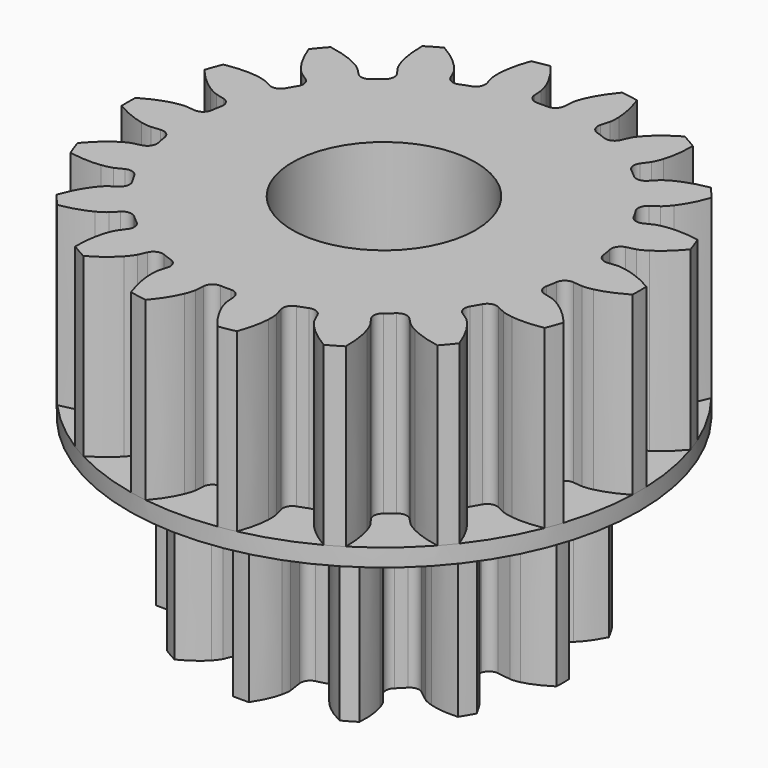
from build123d import *

# Parameters (mm, degrees)
PAD002_DEPTH    = 10
SKETCH_R        = 14.5
PAD_DEPTH       = 1
PAD001_DEPTH    = 10
SKETCH001_R     = 4
POCKET_DEPTH    = 13.8
SKETCH002_R     = 5.2
POCKET001_DEPTH = 7
SKETCH003_R     = 5.2
POCKET002_DEPTH = 7


with BuildPart() as pad:
    # InvoluteGear001 → Pad002 (new body)
    with BuildSketch(Plane.XY):
        with BuildLine():
            Line((7.332691, -1.076777), (8.11163, -1.189963))
            add(Edge.make_bspline(
                [(8.11163, -1.189963), (8.171593, -1.194233), (8.35162, -1.198221), (8.65427, -1.129313)],
                knots=[0, 0, 0, 0, 1, 1, 1, 1], degree=3))
            add(Edge.make_bspline(
                [(8.65427, -1.129313), (9.014524, -1.045174), (9.527501, -0.858342), (10.142045, -0.449147)],
                knots=[0, 0, 0, 0, 1, 1, 1, 1], degree=3))
            ThreePointArc((10.142045, -0.449147), (10.151987, 0), (10.142045, 0.449147))
            add(Edge.make_bspline(
                [(10.142045, 0.449147), (9.527501, 0.858342), (9.014524, 1.045174), (8.65427, 1.129313)],
                knots=[0, 0, 0, 0, 1, 1, 1, 1], degree=3))
            add(Edge.make_bspline(
                [(8.65427, 1.129313), (8.35162, 1.198221), (8.171593, 1.194233), (8.11163, 1.189963)],
                knots=[0, 0, 0, 0, 1, 1, 1, 1], degree=3))
            Line((8.11163, 1.189963), (7.332691, 1.076777))
            ThreePointArc((7.332691, 1.076777), (6.945887, 1.166515), (6.723226, 1.49529))
            ThreePointArc((6.723226, 1.49529), (6.652814, 1.782616), (6.570129, 2.066654))
            ThreePointArc((6.570129, 2.066654), (6.598572, 2.462712), (6.888686, 2.733829))
            Line((6.888686, 2.733829), (7.619859, 3.025277))
            add(Edge.make_bspline(
                [(7.619859, 3.025277), (7.673924, 3.05156), (7.831825, 3.13812), (8.059474, 3.349121)],
                knots=[0, 0, 0, 0, 1, 1, 1, 1], degree=3))
            add(Edge.make_bspline(
                [(8.059474, 3.349121), (8.329394, 3.602115), (8.680229, 4.020404), (9.007842, 4.68205)],
                knots=[0, 0, 0, 0, 1, 1, 1, 1], degree=3))
            ThreePointArc((9.007842, 4.68205), (8.791879, 5.075994), (8.558695, 5.459995))
            add(Edge.make_bspline(
                [(8.558695, 5.459995), (7.821886, 5.507097), (7.28422, 5.41241), (6.930161, 5.305148)],
                knots=[0, 0, 0, 0, 1, 1, 1, 1], degree=3))
            add(Edge.make_bspline(
                [(6.930161, 5.305148), (6.633604, 5.2135), (6.479691, 5.120033), (6.429896, 5.086354)],
                knots=[0, 0, 0, 0, 1, 1, 1, 1], degree=3))
            Line((6.429896, 5.086354), (5.811908, 4.598862))
            ThreePointArc((5.811908, 4.598862), (5.432057, 4.483175), (5.074839, 4.656572))
            ThreePointArc((5.074839, 4.656572), (4.870198, 4.870198), (4.656572, 5.074839))
            ThreePointArc((4.656572, 5.074839), (4.483175, 5.432057), (4.598862, 5.811908))
            Line((4.598862, 5.811908), (5.086354, 6.429896))
            add(Edge.make_bspline(
                [(5.086354, 6.429896), (5.120033, 6.479691), (5.2135, 6.633604), (5.305148, 6.930161)],
                knots=[0, 0, 0, 0, 1, 1, 1, 1], degree=3))
            add(Edge.make_bspline(
                [(5.305148, 6.930161), (5.41241, 7.28422), (5.507097, 7.821886), (5.459995, 8.558695)],
                knots=[0, 0, 0, 0, 1, 1, 1, 1], degree=3))
            ThreePointArc((5.459995, 8.558695), (5.075994, 8.791879), (4.68205, 9.007842))
            add(Edge.make_bspline(
                [(4.68205, 9.007842), (4.020404, 8.680229), (3.602115, 8.329394), (3.349121, 8.059474)],
                knots=[0, 0, 0, 0, 1, 1, 1, 1], degree=3))
            add(Edge.make_bspline(
                [(3.349121, 8.059474), (3.13812, 7.831825), (3.05156, 7.673924), (3.025277, 7.619859)],
                knots=[0, 0, 0, 0, 1, 1, 1, 1], degree=3))
            Line((3.025277, 7.619859), (2.733829, 6.888686))
            ThreePointArc((2.733829, 6.888686), (2.462712, 6.598572), (2.066654, 6.570129))
            ThreePointArc((2.066654, 6.570129), (1.782616, 6.652814), (1.49529, 6.723226))
            ThreePointArc((1.49529, 6.723226), (1.166515, 6.945887), (1.076777, 7.332691))
            Line((1.076777, 7.332691), (1.189963, 8.11163))
            add(Edge.make_bspline(
                [(1.189963, 8.11163), (1.194233, 8.171593), (1.198221, 8.35162), (1.129313, 8.65427)],
                knots=[0, 0, 0, 0, 1, 1, 1, 1], degree=3))
            add(Edge.make_bspline(
                [(1.129313, 8.65427), (1.045174, 9.014524), (0.858342, 9.527501), (0.449147, 10.142045)],
                knots=[0, 0, 0, 0, 1, 1, 1, 1], degree=3))
            ThreePointArc((0.449147, 10.142045), (0, 10.151987), (-0.449147, 10.142045))
            add(Edge.make_bspline(
                [(-0.449147, 10.142045), (-0.858342, 9.527501), (-1.045174, 9.014524), (-1.129313, 8.65427)],
                knots=[0, 0, 0, 0, 1, 1, 1, 1], degree=3))
            add(Edge.make_bspline(
                [(-1.129313, 8.65427), (-1.198221, 8.35162), (-1.194233, 8.171593), (-1.189963, 8.11163)],
                knots=[0, 0, 0, 0, 1, 1, 1, 1], degree=3))
            Line((-1.189963, 8.11163), (-1.076777, 7.332691))
            ThreePointArc((-1.076777, 7.332691), (-1.166515, 6.945887), (-1.49529, 6.723226))
            ThreePointArc((-1.49529, 6.723226), (-1.782616, 6.652814), (-2.066654, 6.570129))
            ThreePointArc((-2.066654, 6.570129), (-2.462712, 6.598572), (-2.733829, 6.888686))
            Line((-2.733829, 6.888686), (-3.025277, 7.619859))
            add(Edge.make_bspline(
                [(-3.025277, 7.619859), (-3.05156, 7.673924), (-3.13812, 7.831825), (-3.349121, 8.059474)],
                knots=[0, 0, 0, 0, 1, 1, 1, 1], degree=3))
            add(Edge.make_bspline(
                [(-3.349121, 8.059474), (-3.602115, 8.329394), (-4.020404, 8.680229), (-4.68205, 9.007842)],
                knots=[0, 0, 0, 0, 1, 1, 1, 1], degree=3))
            ThreePointArc((-4.68205, 9.007842), (-5.075994, 8.791879), (-5.459995, 8.558695))
            add(Edge.make_bspline(
                [(-5.459995, 8.558695), (-5.507097, 7.821886), (-5.41241, 7.28422), (-5.305148, 6.930161)],
                knots=[0, 0, 0, 0, 1, 1, 1, 1], degree=3))
            add(Edge.make_bspline(
                [(-5.305148, 6.930161), (-5.2135, 6.633604), (-5.120033, 6.479691), (-5.086354, 6.429896)],
                knots=[0, 0, 0, 0, 1, 1, 1, 1], degree=3))
            Line((-5.086354, 6.429896), (-4.598862, 5.811908))
            ThreePointArc((-4.598862, 5.811908), (-4.483175, 5.432057), (-4.656572, 5.074839))
            ThreePointArc((-4.656572, 5.074839), (-4.870198, 4.870198), (-5.074839, 4.656572))
            ThreePointArc((-5.074839, 4.656572), (-5.432057, 4.483175), (-5.811908, 4.598862))
            Line((-5.811908, 4.598862), (-6.429896, 5.086354))
            add(Edge.make_bspline(
                [(-6.429896, 5.086354), (-6.479691, 5.120033), (-6.633604, 5.2135), (-6.930161, 5.305148)],
                knots=[0, 0, 0, 0, 1, 1, 1, 1], degree=3))
            add(Edge.make_bspline(
                [(-6.930161, 5.305148), (-7.28422, 5.41241), (-7.821886, 5.507097), (-8.558695, 5.459995)],
                knots=[0, 0, 0, 0, 1, 1, 1, 1], degree=3))
            ThreePointArc((-8.558695, 5.459995), (-8.791879, 5.075994), (-9.007842, 4.68205))
            add(Edge.make_bspline(
                [(-9.007842, 4.68205), (-8.680229, 4.020404), (-8.329394, 3.602115), (-8.059474, 3.349121)],
                knots=[0, 0, 0, 0, 1, 1, 1, 1], degree=3))
            add(Edge.make_bspline(
                [(-8.059474, 3.349121), (-7.831825, 3.13812), (-7.673924, 3.05156), (-7.619859, 3.025277)],
                knots=[0, 0, 0, 0, 1, 1, 1, 1], degree=3))
            Line((-7.619859, 3.025277), (-6.888686, 2.733829))
            ThreePointArc((-6.888686, 2.733829), (-6.598572, 2.462712), (-6.570129, 2.066654))
            ThreePointArc((-6.570129, 2.066654), (-6.652814, 1.782616), (-6.723226, 1.49529))
            ThreePointArc((-6.723226, 1.49529), (-6.945887, 1.166515), (-7.332691, 1.076777))
            Line((-7.332691, 1.076777), (-8.11163, 1.189963))
            add(Edge.make_bspline(
                [(-8.11163, 1.189963), (-8.171593, 1.194233), (-8.35162, 1.198221), (-8.65427, 1.129313)],
                knots=[0, 0, 0, 0, 1, 1, 1, 1], degree=3))
            add(Edge.make_bspline(
                [(-8.65427, 1.129313), (-9.014524, 1.045174), (-9.527501, 0.858342), (-10.142045, 0.449147)],
                knots=[0, 0, 0, 0, 1, 1, 1, 1], degree=3))
            ThreePointArc((-10.142045, 0.449147), (-10.151987, 0), (-10.142045, -0.449147))
            add(Edge.make_bspline(
                [(-10.142045, -0.449147), (-9.527501, -0.858342), (-9.014524, -1.045174), (-8.65427, -1.129313)],
                knots=[0, 0, 0, 0, 1, 1, 1, 1], degree=3))
            add(Edge.make_bspline(
                [(-8.65427, -1.129313), (-8.35162, -1.198221), (-8.171593, -1.194233), (-8.11163, -1.189963)],
                knots=[0, 0, 0, 0, 1, 1, 1, 1], degree=3))
            Line((-8.11163, -1.189963), (-7.332691, -1.076777))
            ThreePointArc((-7.332691, -1.076777), (-6.945887, -1.166515), (-6.723226, -1.49529))
            ThreePointArc((-6.723226, -1.49529), (-6.652814, -1.782616), (-6.570129, -2.066654))
            ThreePointArc((-6.570129, -2.066654), (-6.598572, -2.462712), (-6.888686, -2.733829))
            Line((-6.888686, -2.733829), (-7.619859, -3.025277))
            add(Edge.make_bspline(
                [(-7.619859, -3.025277), (-7.673924, -3.05156), (-7.831825, -3.13812), (-8.059474, -3.349121)],
                knots=[0, 0, 0, 0, 1, 1, 1, 1], degree=3))
            add(Edge.make_bspline(
                [(-8.059474, -3.349121), (-8.329394, -3.602115), (-8.680229, -4.020404), (-9.007842, -4.68205)],
                knots=[0, 0, 0, 0, 1, 1, 1, 1], degree=3))
            ThreePointArc((-9.007842, -4.68205), (-8.791879, -5.075994), (-8.558695, -5.459995))
            add(Edge.make_bspline(
                [(-8.558695, -5.459995), (-7.821886, -5.507097), (-7.28422, -5.41241), (-6.930161, -5.305148)],
                knots=[0, 0, 0, 0, 1, 1, 1, 1], degree=3))
            add(Edge.make_bspline(
                [(-6.930161, -5.305148), (-6.633604, -5.2135), (-6.479691, -5.120033), (-6.429896, -5.086354)],
                knots=[0, 0, 0, 0, 1, 1, 1, 1], degree=3))
            Line((-6.429896, -5.086354), (-5.811908, -4.598862))
            ThreePointArc((-5.811908, -4.598862), (-5.432057, -4.483175), (-5.074839, -4.656572))
            ThreePointArc((-5.074839, -4.656572), (-4.870198, -4.870198), (-4.656572, -5.074839))
            ThreePointArc((-4.656572, -5.074839), (-4.483175, -5.432057), (-4.598862, -5.811908))
            Line((-4.598862, -5.811908), (-5.086354, -6.429896))
            add(Edge.make_bspline(
                [(-5.086354, -6.429896), (-5.120033, -6.479691), (-5.2135, -6.633604), (-5.305148, -6.930161)],
                knots=[0, 0, 0, 0, 1, 1, 1, 1], degree=3))
            add(Edge.make_bspline(
                [(-5.305148, -6.930161), (-5.41241, -7.28422), (-5.507097, -7.821886), (-5.459995, -8.558695)],
                knots=[0, 0, 0, 0, 1, 1, 1, 1], degree=3))
            ThreePointArc((-5.459995, -8.558695), (-5.075994, -8.791879), (-4.68205, -9.007842))
            add(Edge.make_bspline(
                [(-4.68205, -9.007842), (-4.020404, -8.680229), (-3.602115, -8.329394), (-3.349121, -8.059474)],
                knots=[0, 0, 0, 0, 1, 1, 1, 1], degree=3))
            add(Edge.make_bspline(
                [(-3.349121, -8.059474), (-3.13812, -7.831825), (-3.05156, -7.673924), (-3.025277, -7.619859)],
                knots=[0, 0, 0, 0, 1, 1, 1, 1], degree=3))
            Line((-3.025277, -7.619859), (-2.733829, -6.888686))
            ThreePointArc((-2.733829, -6.888686), (-2.462712, -6.598572), (-2.066654, -6.570129))
            ThreePointArc((-2.066654, -6.570129), (-1.782616, -6.652814), (-1.49529, -6.723226))
            ThreePointArc((-1.49529, -6.723226), (-1.166515, -6.945887), (-1.076777, -7.332691))
            Line((-1.076777, -7.332691), (-1.189963, -8.11163))
            add(Edge.make_bspline(
                [(-1.189963, -8.11163), (-1.194233, -8.171593), (-1.198221, -8.35162), (-1.129313, -8.65427)],
                knots=[0, 0, 0, 0, 1, 1, 1, 1], degree=3))
            add(Edge.make_bspline(
                [(-1.129313, -8.65427), (-1.045174, -9.014524), (-0.858342, -9.527501), (-0.449147, -10.142045)],
                knots=[0, 0, 0, 0, 1, 1, 1, 1], degree=3))
            ThreePointArc((-0.449147, -10.142045), (0, -10.151987), (0.449147, -10.142045))
            add(Edge.make_bspline(
                [(0.449147, -10.142045), (0.858342, -9.527501), (1.045174, -9.014524), (1.129313, -8.65427)],
                knots=[0, 0, 0, 0, 1, 1, 1, 1], degree=3))
            add(Edge.make_bspline(
                [(1.129313, -8.65427), (1.198221, -8.35162), (1.194233, -8.171593), (1.189963, -8.11163)],
                knots=[0, 0, 0, 0, 1, 1, 1, 1], degree=3))
            Line((1.189963, -8.11163), (1.076777, -7.332691))
            ThreePointArc((1.076777, -7.332691), (1.166515, -6.945887), (1.49529, -6.723226))
            ThreePointArc((1.49529, -6.723226), (1.782616, -6.652814), (2.066654, -6.570129))
            ThreePointArc((2.066654, -6.570129), (2.462712, -6.598572), (2.733829, -6.888686))
            Line((2.733829, -6.888686), (3.025277, -7.619859))
            add(Edge.make_bspline(
                [(3.025277, -7.619859), (3.05156, -7.673924), (3.13812, -7.831825), (3.349121, -8.059474)],
                knots=[0, 0, 0, 0, 1, 1, 1, 1], degree=3))
            add(Edge.make_bspline(
                [(3.349121, -8.059474), (3.602115, -8.329394), (4.020404, -8.680229), (4.68205, -9.007842)],
                knots=[0, 0, 0, 0, 1, 1, 1, 1], degree=3))
            ThreePointArc((4.68205, -9.007842), (5.075994, -8.791879), (5.459995, -8.558695))
            add(Edge.make_bspline(
                [(5.459995, -8.558695), (5.507097, -7.821886), (5.41241, -7.28422), (5.305148, -6.930161)],
                knots=[0, 0, 0, 0, 1, 1, 1, 1], degree=3))
            add(Edge.make_bspline(
                [(5.305148, -6.930161), (5.2135, -6.633604), (5.120033, -6.479691), (5.086354, -6.429896)],
                knots=[0, 0, 0, 0, 1, 1, 1, 1], degree=3))
            Line((5.086354, -6.429896), (4.598862, -5.811908))
            ThreePointArc((4.598862, -5.811908), (4.483175, -5.432057), (4.656572, -5.074839))
            ThreePointArc((4.656572, -5.074839), (4.870198, -4.870198), (5.074839, -4.656572))
            ThreePointArc((5.074839, -4.656572), (5.432057, -4.483175), (5.811908, -4.598862))
            Line((5.811908, -4.598862), (6.429896, -5.086354))
            add(Edge.make_bspline(
                [(6.429896, -5.086354), (6.479691, -5.120033), (6.633604, -5.2135), (6.930161, -5.305148)],
                knots=[0, 0, 0, 0, 1, 1, 1, 1], degree=3))
            add(Edge.make_bspline(
                [(6.930161, -5.305148), (7.28422, -5.41241), (7.821886, -5.507097), (8.558695, -5.459995)],
                knots=[0, 0, 0, 0, 1, 1, 1, 1], degree=3))
            ThreePointArc((8.558695, -5.459995), (8.791879, -5.075994), (9.007842, -4.68205))
            add(Edge.make_bspline(
                [(9.007842, -4.68205), (8.680229, -4.020404), (8.329394, -3.602115), (8.059474, -3.349121)],
                knots=[0, 0, 0, 0, 1, 1, 1, 1], degree=3))
            add(Edge.make_bspline(
                [(8.059474, -3.349121), (7.831825, -3.13812), (7.673924, -3.05156), (7.619859, -3.025277)],
                knots=[0, 0, 0, 0, 1, 1, 1, 1], degree=3))
            Line((7.619859, -3.025277), (6.888686, -2.733829))
            ThreePointArc((6.888686, -2.733829), (6.598572, -2.462712), (6.570129, -2.066654))
            ThreePointArc((6.570129, -2.066654), (6.652814, -1.782616), (6.723226, -1.49529))
            ThreePointArc((6.723226, -1.49529), (6.945887, -1.166515), (7.332691, -1.076777))
        make_face()
    extrude(amount=-PAD002_DEPTH)

    # Sketch → Pad (new body)
    with BuildSketch(Plane.XY):
        Circle(SKETCH_R)
    extrude(amount=PAD_DEPTH)


with BuildPart() as final:
    # InvoluteGear → Pad001 (new body)
    with BuildSketch(Plane.XY.offset(1)):
        with BuildLine():
            Line((11.707323, -1.200327), (12.224235, -1.252222))
            add(Edge.make_bspline(
                [(12.224235, -1.252222), (12.290492, -1.254765), (12.489834, -1.254028), (12.822773, -1.181097)],
                knots=[0, 0, 0, 0, 1, 1, 1, 1], degree=3))
            add(Edge.make_bspline(
                [(12.822773, -1.181097), (13.220721, -1.092448), (13.792352, -0.90147), (14.493245, -0.493472)],
                knots=[0, 0, 0, 0, 1, 1, 1, 1], degree=3))
            ThreePointArc((14.493245, -0.493472), (14.501644, 0), (14.493245, 0.493472))
            add(Edge.make_bspline(
                [(14.493245, 0.493472), (13.792352, 0.90147), (13.220721, 1.092448), (12.822773, 1.181097)],
                knots=[0, 0, 0, 0, 1, 1, 1, 1], degree=3))
            add(Edge.make_bspline(
                [(12.822773, 1.181097), (12.489834, 1.254028), (12.290492, 1.254765), (12.224235, 1.252222)],
                knots=[0, 0, 0, 0, 1, 1, 1, 1], degree=3))
            Line((12.224235, 1.252222), (11.707323, 1.200327))
            ThreePointArc((11.707323, 1.200327), (11.318638, 1.311561), (11.114167, 1.66033))
            ThreePointArc((11.114167, 1.66033), (11.066777, 1.951371), (11.011767, 2.241069))
            ThreePointArc((11.011767, 2.241069), (11.084621, 2.638738), (11.411821, 2.876202))
            Line((11.411821, 2.876202), (11.915309, 3.004231))
            add(Edge.make_bspline(
                [(11.915309, 3.004231), (11.978439, 3.024502), (12.165508, 3.093374), (12.453424, 3.275779)],
                knots=[0, 0, 0, 0, 1, 1, 1, 1], degree=3))
            add(Edge.make_bspline(
                [(12.453424, 3.275779), (12.797053, 3.495187), (13.268892, 3.870157), (13.787973, 4.49327)],
                knots=[0, 0, 0, 0, 1, 1, 1, 1], degree=3))
            ThreePointArc((13.787973, 4.49327), (13.627088, 4.959855), (13.450418, 5.420694))
            add(Edge.make_bspline(
                [(13.450418, 5.420694), (12.652251, 5.564367), (12.049774, 5.548318), (11.645506, 5.495514)],
                knots=[0, 0, 0, 0, 1, 1, 1, 1], degree=3))
            add(Edge.make_bspline(
                [(11.645506, 5.495514), (11.307703, 5.450176), (11.12013, 5.382689), (11.058738, 5.357639)],
                knots=[0, 0, 0, 0, 1, 1, 1, 1], degree=3))
            Line((11.058738, 5.357639), (10.590749, 5.132078))
            ThreePointArc((10.590749, 5.132078), (10.187461, 5.103666), (9.876034, 5.361469))
            ThreePointArc((9.876034, 5.361469), (9.73196, 5.61875), (9.581186, 5.872162))
            ThreePointArc((9.581186, 5.872162), (9.513635, 6.270767), (9.739885, 6.605818))
            Line((9.739885, 6.605818), (10.169221, 6.898329))
            add(Edge.make_bspline(
                [(10.169221, 6.898329), (10.22161, 6.93897), (10.373842, 7.06767), (10.582008, 7.337547)],
                knots=[0, 0, 0, 0, 1, 1, 1, 1], degree=3))
            add(Edge.make_bspline(
                [(10.582008, 7.337547), (10.829872, 7.661252), (11.145008, 8.174987), (11.419667, 8.938057)],
                knots=[0, 0, 0, 0, 1, 1, 1, 1], degree=3))
            ThreePointArc((11.419667, 8.938057), (11.108904, 9.321477), (10.785272, 9.6941))
            add(Edge.make_bspline(
                [(10.785272, 9.6941), (9.986101, 9.556119), (9.425447, 9.334979), (9.06362, 9.147092)],
                knots=[0, 0, 0, 0, 1, 1, 1, 1], degree=3))
            add(Edge.make_bspline(
                [(9.06362, 9.147092), (8.761695, 8.988952), (8.608516, 8.861382), (8.559394, 8.816845)],
                knots=[0, 0, 0, 0, 1, 1, 1, 1], degree=3))
            Line((8.559394, 8.816845), (8.196774, 8.444826))
            ThreePointArc((8.196774, 8.444826), (7.827525, 8.280194), (7.446706, 8.415936))
            ThreePointArc((7.446706, 8.415936), (7.223326, 8.608424), (6.994972, 8.794986))
            ThreePointArc((6.994972, 8.794986), (6.795164, 9.146448), (6.893175, 9.538675))
            Line((6.893175, 9.538675), (7.196574, 9.960387))
            add(Edge.make_bspline(
                [(7.196574, 9.960387), (7.231904, 10.016496), (7.330937, 10.1895), (7.434246, 10.514299)],
                knots=[0, 0, 0, 0, 1, 1, 1, 1], degree=3))
            add(Edge.make_bspline(
                [(7.434246, 10.514299), (7.556448, 10.903256), (7.676872, 11.493792), (7.673982, 12.304782)],
                knots=[0, 0, 0, 0, 1, 1, 1, 1], degree=3))
            ThreePointArc((7.673982, 12.304782), (7.250822, 12.558792), (6.819263, 12.798254))
            add(Edge.make_bspline(
                [(6.819263, 12.798254), (6.11548, 12.395262), (5.664272, 11.995704), (5.388527, 11.695396)],
                knots=[0, 0, 0, 0, 1, 1, 1, 1], degree=3))
            add(Edge.make_bspline(
                [(5.388527, 11.695396), (5.158897, 11.443528), (5.058588, 11.271261), (5.027661, 11.21261)],
                knots=[0, 0, 0, 0, 1, 1, 1, 1], degree=3))
            Line((5.027661, 11.21261), (4.814148, 10.739002))
            ThreePointArc((4.814148, 10.739002), (4.523474, 10.458009), (4.119196, 10.455316))
            ThreePointArc((4.119196, 10.455316), (3.843451, 10.559796), (3.565061, 10.657005))
            ThreePointArc((3.565061, 10.657005), (3.257096, 10.918933), (3.215046, 11.321028))
            Line((3.215046, 11.321028), (3.355915, 11.821076))
            add(Edge.make_bspline(
                [(3.355915, 11.821076), (3.369924, 11.885884), (3.403813, 12.082326), (3.389804, 12.422871)],
                knots=[0, 0, 0, 0, 1, 1, 1, 1], degree=3))
            add(Edge.make_bspline(
                [(3.389804, 12.422871), (3.371605, 12.830166), (3.282792, 13.426277), (3.0027, 14.18737)],
                knots=[0, 0, 0, 0, 1, 1, 1, 1], degree=3))
            ThreePointArc((3.0027, 14.18737), (2.518184, 14.281332), (2.030751, 14.35875))
            add(Edge.make_bspline(
                [(2.030751, 14.35875), (1.507242, 13.739354), (1.219903, 13.20957), (1.063498, 12.833062)],
                knots=[0, 0, 0, 0, 1, 1, 1, 1], degree=3))
            add(Edge.make_bspline(
                [(1.063498, 12.833062), (0.933861, 12.517845), (0.898519, 12.321659), (0.889518, 12.255968)],
                knots=[0, 0, 0, 0, 1, 1, 1, 1], degree=3))
            Line((0.889518, 12.255968), (0.850864, 11.737897))
            ThreePointArc((0.850864, 11.737897), (0.673826, 11.374433), (0.294849, 11.233631))
            ThreePointArc((0.294849, 11.233631), (0, 11.2375), (-0.294849, 11.233631))
            ThreePointArc((-0.294849, 11.233631), (-0.673826, 11.374433), (-0.850864, 11.737897))
            Line((-0.850864, 11.737897), (-0.889518, 12.255968))
            add(Edge.make_bspline(
                [(-0.889518, 12.255968), (-0.898519, 12.321659), (-0.933861, 12.517845), (-1.063498, 12.833062)],
                knots=[0, 0, 0, 0, 1, 1, 1, 1], degree=3))
            add(Edge.make_bspline(
                [(-1.063498, 12.833062), (-1.219903, 13.20957), (-1.507242, 13.739354), (-2.030751, 14.35875)],
                knots=[0, 0, 0, 0, 1, 1, 1, 1], degree=3))
            ThreePointArc((-2.030751, 14.35875), (-2.518184, 14.281332), (-3.0027, 14.18737))
            add(Edge.make_bspline(
                [(-3.0027, 14.18737), (-3.282792, 13.426277), (-3.371605, 12.830166), (-3.389804, 12.422871)],
                knots=[0, 0, 0, 0, 1, 1, 1, 1], degree=3))
            add(Edge.make_bspline(
                [(-3.389804, 12.422871), (-3.403813, 12.082326), (-3.369924, 11.885884), (-3.355915, 11.821076)],
                knots=[0, 0, 0, 0, 1, 1, 1, 1], degree=3))
            Line((-3.355915, 11.821076), (-3.215046, 11.321028))
            ThreePointArc((-3.215046, 11.321028), (-3.257096, 10.918933), (-3.565061, 10.657005))
            ThreePointArc((-3.565061, 10.657005), (-3.843451, 10.559796), (-4.119196, 10.455316))
            ThreePointArc((-4.119196, 10.455316), (-4.523474, 10.458009), (-4.814148, 10.739002))
            Line((-4.814148, 10.739002), (-5.027661, 11.21261))
            add(Edge.make_bspline(
                [(-5.027661, 11.21261), (-5.058588, 11.271261), (-5.158897, 11.443528), (-5.388527, 11.695396)],
                knots=[0, 0, 0, 0, 1, 1, 1, 1], degree=3))
            add(Edge.make_bspline(
                [(-5.388527, 11.695396), (-5.664272, 11.995704), (-6.11548, 12.395262), (-6.819263, 12.798254)],
                knots=[0, 0, 0, 0, 1, 1, 1, 1], degree=3))
            ThreePointArc((-6.819263, 12.798254), (-7.250822, 12.558792), (-7.673982, 12.304782))
            add(Edge.make_bspline(
                [(-7.673982, 12.304782), (-7.676872, 11.493792), (-7.556448, 10.903256), (-7.434246, 10.514299)],
                knots=[0, 0, 0, 0, 1, 1, 1, 1], degree=3))
            add(Edge.make_bspline(
                [(-7.434246, 10.514299), (-7.330937, 10.1895), (-7.231904, 10.016496), (-7.196574, 9.960387)],
                knots=[0, 0, 0, 0, 1, 1, 1, 1], degree=3))
            Line((-7.196574, 9.960387), (-6.893175, 9.538675))
            ThreePointArc((-6.893175, 9.538675), (-6.795164, 9.146448), (-6.994972, 8.794986))
            ThreePointArc((-6.994972, 8.794986), (-7.223326, 8.608424), (-7.446706, 8.415936))
            ThreePointArc((-7.446706, 8.415936), (-7.827525, 8.280194), (-8.196774, 8.444826))
            Line((-8.196774, 8.444826), (-8.559394, 8.816845))
            add(Edge.make_bspline(
                [(-8.559394, 8.816845), (-8.608516, 8.861382), (-8.761695, 8.988952), (-9.06362, 9.147092)],
                knots=[0, 0, 0, 0, 1, 1, 1, 1], degree=3))
            add(Edge.make_bspline(
                [(-9.06362, 9.147092), (-9.425447, 9.334979), (-9.986101, 9.556119), (-10.785272, 9.6941)],
                knots=[0, 0, 0, 0, 1, 1, 1, 1], degree=3))
            ThreePointArc((-10.785272, 9.6941), (-11.108904, 9.321477), (-11.419667, 8.938057))
            add(Edge.make_bspline(
                [(-11.419667, 8.938057), (-11.145008, 8.174987), (-10.829872, 7.661252), (-10.582008, 7.337547)],
                knots=[0, 0, 0, 0, 1, 1, 1, 1], degree=3))
            add(Edge.make_bspline(
                [(-10.582008, 7.337547), (-10.373842, 7.06767), (-10.22161, 6.93897), (-10.169221, 6.898329)],
                knots=[0, 0, 0, 0, 1, 1, 1, 1], degree=3))
            Line((-10.169221, 6.898329), (-9.739885, 6.605818))
            ThreePointArc((-9.739885, 6.605818), (-9.513635, 6.270767), (-9.581186, 5.872162))
            ThreePointArc((-9.581186, 5.872162), (-9.73196, 5.61875), (-9.876034, 5.361469))
            ThreePointArc((-9.876034, 5.361469), (-10.187461, 5.103666), (-10.590749, 5.132078))
            Line((-10.590749, 5.132078), (-11.058738, 5.357639))
            add(Edge.make_bspline(
                [(-11.058738, 5.357639), (-11.12013, 5.382689), (-11.307703, 5.450176), (-11.645506, 5.495514)],
                knots=[0, 0, 0, 0, 1, 1, 1, 1], degree=3))
            add(Edge.make_bspline(
                [(-11.645506, 5.495514), (-12.049774, 5.548318), (-12.652251, 5.564367), (-13.450418, 5.420694)],
                knots=[0, 0, 0, 0, 1, 1, 1, 1], degree=3))
            ThreePointArc((-13.450418, 5.420694), (-13.627088, 4.959855), (-13.787973, 4.49327))
            add(Edge.make_bspline(
                [(-13.787973, 4.49327), (-13.268892, 3.870157), (-12.797053, 3.495187), (-12.453424, 3.275779)],
                knots=[0, 0, 0, 0, 1, 1, 1, 1], degree=3))
            add(Edge.make_bspline(
                [(-12.453424, 3.275779), (-12.165508, 3.093374), (-11.978439, 3.024502), (-11.915309, 3.004231)],
                knots=[0, 0, 0, 0, 1, 1, 1, 1], degree=3))
            Line((-11.915309, 3.004231), (-11.411821, 2.876202))
            ThreePointArc((-11.411821, 2.876202), (-11.084621, 2.638738), (-11.011767, 2.241069))
            ThreePointArc((-11.011767, 2.241069), (-11.066777, 1.951371), (-11.114167, 1.66033))
            ThreePointArc((-11.114167, 1.66033), (-11.318638, 1.311561), (-11.707323, 1.200327))
            Line((-11.707323, 1.200327), (-12.224235, 1.252222))
            add(Edge.make_bspline(
                [(-12.224235, 1.252222), (-12.290492, 1.254765), (-12.489834, 1.254028), (-12.822773, 1.181097)],
                knots=[0, 0, 0, 0, 1, 1, 1, 1], degree=3))
            add(Edge.make_bspline(
                [(-12.822773, 1.181097), (-13.220721, 1.092448), (-13.792352, 0.90147), (-14.493245, 0.493472)],
                knots=[0, 0, 0, 0, 1, 1, 1, 1], degree=3))
            ThreePointArc((-14.493245, 0.493472), (-14.501644, 0), (-14.493245, -0.493472))
            add(Edge.make_bspline(
                [(-14.493245, -0.493472), (-13.792352, -0.90147), (-13.220721, -1.092448), (-12.822773, -1.181097)],
                knots=[0, 0, 0, 0, 1, 1, 1, 1], degree=3))
            add(Edge.make_bspline(
                [(-12.822773, -1.181097), (-12.489834, -1.254028), (-12.290492, -1.254765), (-12.224235, -1.252222)],
                knots=[0, 0, 0, 0, 1, 1, 1, 1], degree=3))
            Line((-12.224235, -1.252222), (-11.707323, -1.200327))
            ThreePointArc((-11.707323, -1.200327), (-11.318638, -1.311561), (-11.114167, -1.66033))
            ThreePointArc((-11.114167, -1.66033), (-11.066777, -1.951371), (-11.011767, -2.241069))
            ThreePointArc((-11.011767, -2.241069), (-11.084621, -2.638738), (-11.411821, -2.876202))
            Line((-11.411821, -2.876202), (-11.915309, -3.004231))
            add(Edge.make_bspline(
                [(-11.915309, -3.004231), (-11.978439, -3.024502), (-12.165508, -3.093374), (-12.453424, -3.275779)],
                knots=[0, 0, 0, 0, 1, 1, 1, 1], degree=3))
            add(Edge.make_bspline(
                [(-12.453424, -3.275779), (-12.797053, -3.495187), (-13.268892, -3.870157), (-13.787973, -4.49327)],
                knots=[0, 0, 0, 0, 1, 1, 1, 1], degree=3))
            ThreePointArc((-13.787973, -4.49327), (-13.627088, -4.959855), (-13.450418, -5.420694))
            add(Edge.make_bspline(
                [(-13.450418, -5.420694), (-12.652251, -5.564367), (-12.049774, -5.548318), (-11.645506, -5.495514)],
                knots=[0, 0, 0, 0, 1, 1, 1, 1], degree=3))
            add(Edge.make_bspline(
                [(-11.645506, -5.495514), (-11.307703, -5.450176), (-11.12013, -5.382689), (-11.058738, -5.357639)],
                knots=[0, 0, 0, 0, 1, 1, 1, 1], degree=3))
            Line((-11.058738, -5.357639), (-10.590749, -5.132078))
            ThreePointArc((-10.590749, -5.132078), (-10.187461, -5.103666), (-9.876034, -5.361469))
            ThreePointArc((-9.876034, -5.361469), (-9.73196, -5.61875), (-9.581186, -5.872162))
            ThreePointArc((-9.581186, -5.872162), (-9.513635, -6.270767), (-9.739885, -6.605818))
            Line((-9.739885, -6.605818), (-10.169221, -6.898329))
            add(Edge.make_bspline(
                [(-10.169221, -6.898329), (-10.22161, -6.93897), (-10.373842, -7.06767), (-10.582008, -7.337547)],
                knots=[0, 0, 0, 0, 1, 1, 1, 1], degree=3))
            add(Edge.make_bspline(
                [(-10.582008, -7.337547), (-10.829872, -7.661252), (-11.145008, -8.174987), (-11.419667, -8.938057)],
                knots=[0, 0, 0, 0, 1, 1, 1, 1], degree=3))
            ThreePointArc((-11.419667, -8.938057), (-11.108904, -9.321477), (-10.785272, -9.6941))
            add(Edge.make_bspline(
                [(-10.785272, -9.6941), (-9.986101, -9.556119), (-9.425447, -9.334979), (-9.06362, -9.147092)],
                knots=[0, 0, 0, 0, 1, 1, 1, 1], degree=3))
            add(Edge.make_bspline(
                [(-9.06362, -9.147092), (-8.761695, -8.988952), (-8.608516, -8.861382), (-8.559394, -8.816845)],
                knots=[0, 0, 0, 0, 1, 1, 1, 1], degree=3))
            Line((-8.559394, -8.816845), (-8.196774, -8.444826))
            ThreePointArc((-8.196774, -8.444826), (-7.827525, -8.280194), (-7.446706, -8.415936))
            ThreePointArc((-7.446706, -8.415936), (-7.223326, -8.608424), (-6.994972, -8.794986))
            ThreePointArc((-6.994972, -8.794986), (-6.795164, -9.146448), (-6.893175, -9.538675))
            Line((-6.893175, -9.538675), (-7.196574, -9.960387))
            add(Edge.make_bspline(
                [(-7.196574, -9.960387), (-7.231904, -10.016496), (-7.330937, -10.1895), (-7.434246, -10.514299)],
                knots=[0, 0, 0, 0, 1, 1, 1, 1], degree=3))
            add(Edge.make_bspline(
                [(-7.434246, -10.514299), (-7.556448, -10.903256), (-7.676872, -11.493792), (-7.673982, -12.304782)],
                knots=[0, 0, 0, 0, 1, 1, 1, 1], degree=3))
            ThreePointArc((-7.673982, -12.304782), (-7.250822, -12.558792), (-6.819263, -12.798254))
            add(Edge.make_bspline(
                [(-6.819263, -12.798254), (-6.11548, -12.395262), (-5.664272, -11.995704), (-5.388527, -11.695396)],
                knots=[0, 0, 0, 0, 1, 1, 1, 1], degree=3))
            add(Edge.make_bspline(
                [(-5.388527, -11.695396), (-5.158897, -11.443528), (-5.058588, -11.271261), (-5.027661, -11.21261)],
                knots=[0, 0, 0, 0, 1, 1, 1, 1], degree=3))
            Line((-5.027661, -11.21261), (-4.814148, -10.739002))
            ThreePointArc((-4.814148, -10.739002), (-4.523474, -10.458009), (-4.119196, -10.455316))
            ThreePointArc((-4.119196, -10.455316), (-3.843451, -10.559796), (-3.565061, -10.657005))
            ThreePointArc((-3.565061, -10.657005), (-3.257096, -10.918933), (-3.215046, -11.321028))
            Line((-3.215046, -11.321028), (-3.355915, -11.821076))
            add(Edge.make_bspline(
                [(-3.355915, -11.821076), (-3.369924, -11.885884), (-3.403813, -12.082326), (-3.389804, -12.422871)],
                knots=[0, 0, 0, 0, 1, 1, 1, 1], degree=3))
            add(Edge.make_bspline(
                [(-3.389804, -12.422871), (-3.371605, -12.830166), (-3.282792, -13.426277), (-3.0027, -14.18737)],
                knots=[0, 0, 0, 0, 1, 1, 1, 1], degree=3))
            ThreePointArc((-3.0027, -14.18737), (-2.518184, -14.281332), (-2.030751, -14.35875))
            add(Edge.make_bspline(
                [(-2.030751, -14.35875), (-1.507242, -13.739354), (-1.219903, -13.20957), (-1.063498, -12.833062)],
                knots=[0, 0, 0, 0, 1, 1, 1, 1], degree=3))
            add(Edge.make_bspline(
                [(-1.063498, -12.833062), (-0.933861, -12.517845), (-0.898519, -12.321659), (-0.889518, -12.255968)],
                knots=[0, 0, 0, 0, 1, 1, 1, 1], degree=3))
            Line((-0.889518, -12.255968), (-0.850864, -11.737897))
            ThreePointArc((-0.850864, -11.737897), (-0.673826, -11.374433), (-0.294849, -11.233631))
            ThreePointArc((-0.294849, -11.233631), (0, -11.2375), (0.294849, -11.233631))
            ThreePointArc((0.294849, -11.233631), (0.673826, -11.374433), (0.850864, -11.737897))
            Line((0.850864, -11.737897), (0.889518, -12.255968))
            add(Edge.make_bspline(
                [(0.889518, -12.255968), (0.898519, -12.321659), (0.933861, -12.517845), (1.063498, -12.833062)],
                knots=[0, 0, 0, 0, 1, 1, 1, 1], degree=3))
            add(Edge.make_bspline(
                [(1.063498, -12.833062), (1.219903, -13.20957), (1.507242, -13.739354), (2.030751, -14.35875)],
                knots=[0, 0, 0, 0, 1, 1, 1, 1], degree=3))
            ThreePointArc((2.030751, -14.35875), (2.518184, -14.281332), (3.0027, -14.18737))
            add(Edge.make_bspline(
                [(3.0027, -14.18737), (3.282792, -13.426277), (3.371605, -12.830166), (3.389804, -12.422871)],
                knots=[0, 0, 0, 0, 1, 1, 1, 1], degree=3))
            add(Edge.make_bspline(
                [(3.389804, -12.422871), (3.403813, -12.082326), (3.369924, -11.885884), (3.355915, -11.821076)],
                knots=[0, 0, 0, 0, 1, 1, 1, 1], degree=3))
            Line((3.355915, -11.821076), (3.215046, -11.321028))
            ThreePointArc((3.215046, -11.321028), (3.257096, -10.918933), (3.565061, -10.657005))
            ThreePointArc((3.565061, -10.657005), (3.843451, -10.559796), (4.119196, -10.455316))
            ThreePointArc((4.119196, -10.455316), (4.523474, -10.458009), (4.814148, -10.739002))
            Line((4.814148, -10.739002), (5.027661, -11.21261))
            add(Edge.make_bspline(
                [(5.027661, -11.21261), (5.058588, -11.271261), (5.158897, -11.443528), (5.388527, -11.695396)],
                knots=[0, 0, 0, 0, 1, 1, 1, 1], degree=3))
            add(Edge.make_bspline(
                [(5.388527, -11.695396), (5.664272, -11.995704), (6.11548, -12.395262), (6.819263, -12.798254)],
                knots=[0, 0, 0, 0, 1, 1, 1, 1], degree=3))
            ThreePointArc((6.819263, -12.798254), (7.250822, -12.558792), (7.673982, -12.304782))
            add(Edge.make_bspline(
                [(7.673982, -12.304782), (7.676872, -11.493792), (7.556448, -10.903256), (7.434246, -10.514299)],
                knots=[0, 0, 0, 0, 1, 1, 1, 1], degree=3))
            add(Edge.make_bspline(
                [(7.434246, -10.514299), (7.330937, -10.1895), (7.231904, -10.016496), (7.196574, -9.960387)],
                knots=[0, 0, 0, 0, 1, 1, 1, 1], degree=3))
            Line((7.196574, -9.960387), (6.893175, -9.538675))
            ThreePointArc((6.893175, -9.538675), (6.795164, -9.146448), (6.994972, -8.794986))
            ThreePointArc((6.994972, -8.794986), (7.223326, -8.608424), (7.446706, -8.415936))
            ThreePointArc((7.446706, -8.415936), (7.827525, -8.280194), (8.196774, -8.444826))
            Line((8.196774, -8.444826), (8.559394, -8.816845))
            add(Edge.make_bspline(
                [(8.559394, -8.816845), (8.608516, -8.861382), (8.761695, -8.988952), (9.06362, -9.147092)],
                knots=[0, 0, 0, 0, 1, 1, 1, 1], degree=3))
            add(Edge.make_bspline(
                [(9.06362, -9.147092), (9.425447, -9.334979), (9.986101, -9.556119), (10.785272, -9.6941)],
                knots=[0, 0, 0, 0, 1, 1, 1, 1], degree=3))
            ThreePointArc((10.785272, -9.6941), (11.108904, -9.321477), (11.419667, -8.938057))
            add(Edge.make_bspline(
                [(11.419667, -8.938057), (11.145008, -8.174987), (10.829872, -7.661252), (10.582008, -7.337547)],
                knots=[0, 0, 0, 0, 1, 1, 1, 1], degree=3))
            add(Edge.make_bspline(
                [(10.582008, -7.337547), (10.373842, -7.06767), (10.22161, -6.93897), (10.169221, -6.898329)],
                knots=[0, 0, 0, 0, 1, 1, 1, 1], degree=3))
            Line((10.169221, -6.898329), (9.739885, -6.605818))
            ThreePointArc((9.739885, -6.605818), (9.513635, -6.270767), (9.581186, -5.872162))
            ThreePointArc((9.581186, -5.872162), (9.73196, -5.61875), (9.876034, -5.361469))
            ThreePointArc((9.876034, -5.361469), (10.187461, -5.103666), (10.590749, -5.132078))
            Line((10.590749, -5.132078), (11.058738, -5.357639))
            add(Edge.make_bspline(
                [(11.058738, -5.357639), (11.12013, -5.382689), (11.307703, -5.450176), (11.645506, -5.495514)],
                knots=[0, 0, 0, 0, 1, 1, 1, 1], degree=3))
            add(Edge.make_bspline(
                [(11.645506, -5.495514), (12.049774, -5.548318), (12.652251, -5.564367), (13.450418, -5.420694)],
                knots=[0, 0, 0, 0, 1, 1, 1, 1], degree=3))
            ThreePointArc((13.450418, -5.420694), (13.627088, -4.959855), (13.787973, -4.49327))
            add(Edge.make_bspline(
                [(13.787973, -4.49327), (13.268892, -3.870157), (12.797053, -3.495187), (12.453424, -3.275779)],
                knots=[0, 0, 0, 0, 1, 1, 1, 1], degree=3))
            add(Edge.make_bspline(
                [(12.453424, -3.275779), (12.165508, -3.093374), (11.978439, -3.024502), (11.915309, -3.004231)],
                knots=[0, 0, 0, 0, 1, 1, 1, 1], degree=3))
            Line((11.915309, -3.004231), (11.411821, -2.876202))
            ThreePointArc((11.411821, -2.876202), (11.084621, -2.638738), (11.011767, -2.241069))
            ThreePointArc((11.011767, -2.241069), (11.066777, -1.951371), (11.114167, -1.66033))
            ThreePointArc((11.114167, -1.66033), (11.318638, -1.311561), (11.707323, -1.200327))
        make_face()
    extrude(amount=PAD001_DEPTH)

    # Fusion: union Pad
    add(pad.part)

    # Sketch001 → Pocket (cut)
    with BuildSketch(Plane(origin=(0, 0, -10), x_dir=(1, 0, 0), z_dir=(0, 0, -1))):
        Circle(SKETCH001_R)
    extrude(amount=-POCKET_DEPTH, mode=Mode.SUBTRACT)

    # Sketch002 → Pocket001 (cut)
    with BuildSketch(Plane(origin=(0, 0, -10), x_dir=(1, 0, 0), z_dir=(0, 0, -1))):
        Circle(SKETCH002_R)
    extrude(amount=-POCKET001_DEPTH, mode=Mode.SUBTRACT)

    # Sketch003 → Pocket002 (cut)
    with BuildSketch(Plane.XY.offset(11)):
        Circle(SKETCH003_R)
    extrude(amount=-POCKET002_DEPTH, mode=Mode.SUBTRACT)


solid = final.part
